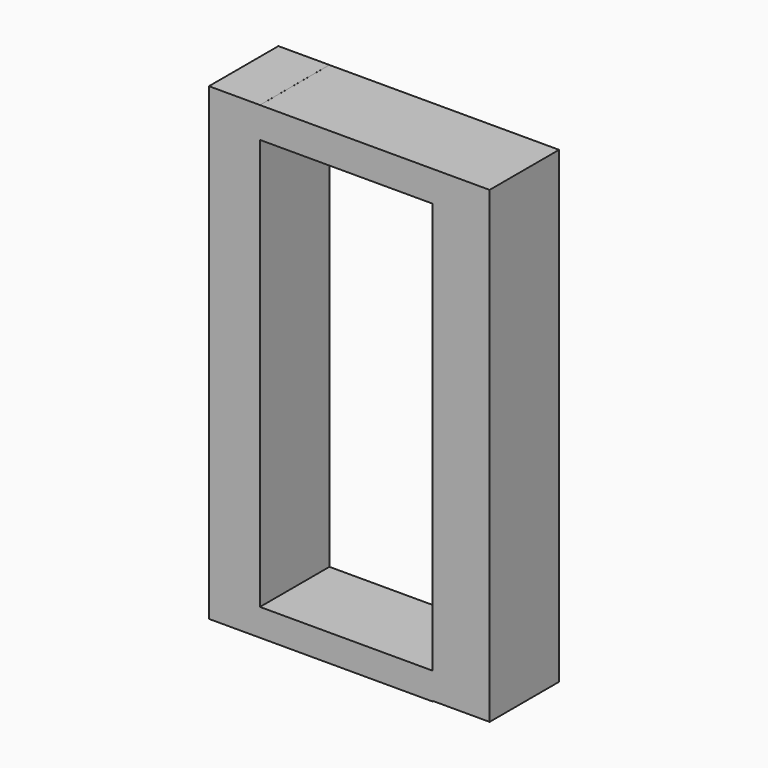
from build123d import *

# Parameters (mm, degrees)
F0_W     = 37.869452
F0_H     = 6.726544
F1_DEPTH = 19.05


with BuildPart() as f1:
    # F0 (on Front) → F1 (new body)
    with BuildSketch(Plane.XZ):
        Polygon((-59.760556, 47.031272), (-70.955373, 47.031272), (-70.955373, -55.858262), (-59.760556, -55.858262), (-59.760556, -49.902789), (-59.760556, 40.296745), (-59.760556, 47.023289), align=None)
        Polygon((-9.379123, 47.023289), (-21.891104, 47.023289), (-21.891104, 40.296745), (-21.891104, -49.902789), (-21.891104, -55.730475), (-9.379123, -55.730475), align=None)
        Polygon((-59.760556, -49.902789), (-59.760556, -55.858262), (-21.891104, -55.858262), (-21.891104, -55.730475), (-21.891104, -49.902789), align=None)
        with Locations((-40.82583, 43.660017)):
            Rectangle(F0_W, F0_H)
    extrude(amount=F1_DEPTH)


solid = f1.part
